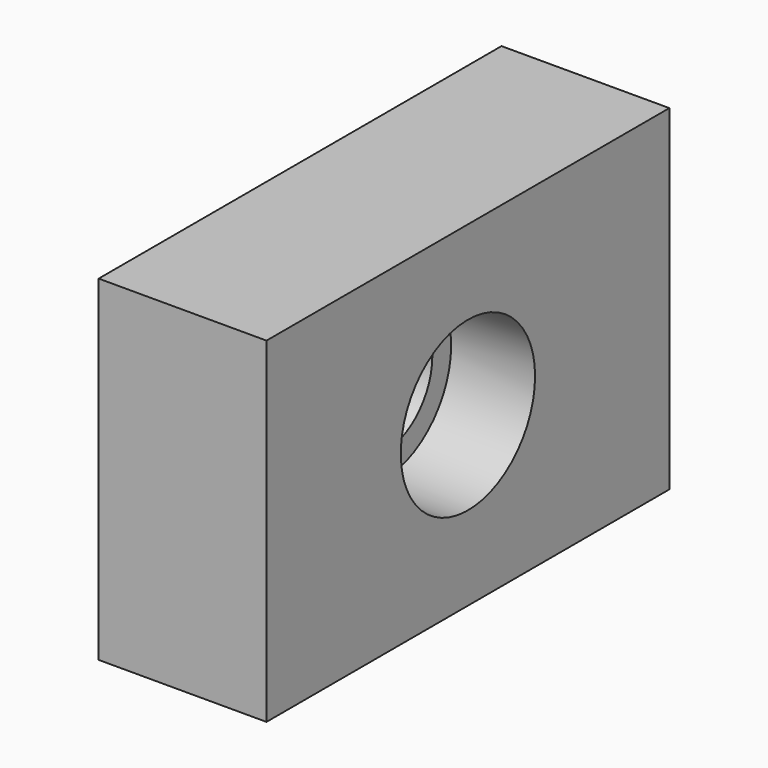
from build123d import *

# Parameters (mm, degrees)
F0_W     = 150
F0_H     = 100
F0_R     = 25
F0_R_2   = 18
F1_DEPTH = 25
F2_DEPTH = 50


with BuildPart() as f1:
    # F0 (on Right) → F1 (new body)
    with BuildSketch(Plane.YZ):
        Rectangle(F0_W, F0_H)
        Circle(F0_R, mode=Mode.SUBTRACT)
        Circle(F0_R)
        Circle(F0_R_2, mode=Mode.SUBTRACT)
    extrude(amount=F1_DEPTH)

    # F0 (on Right) → F2 (join)
    with BuildSketch(Plane.YZ):
        Rectangle(F0_W, F0_H)
        Circle(F0_R, mode=Mode.SUBTRACT)
    extrude(amount=F2_DEPTH)


solid = f1.part
